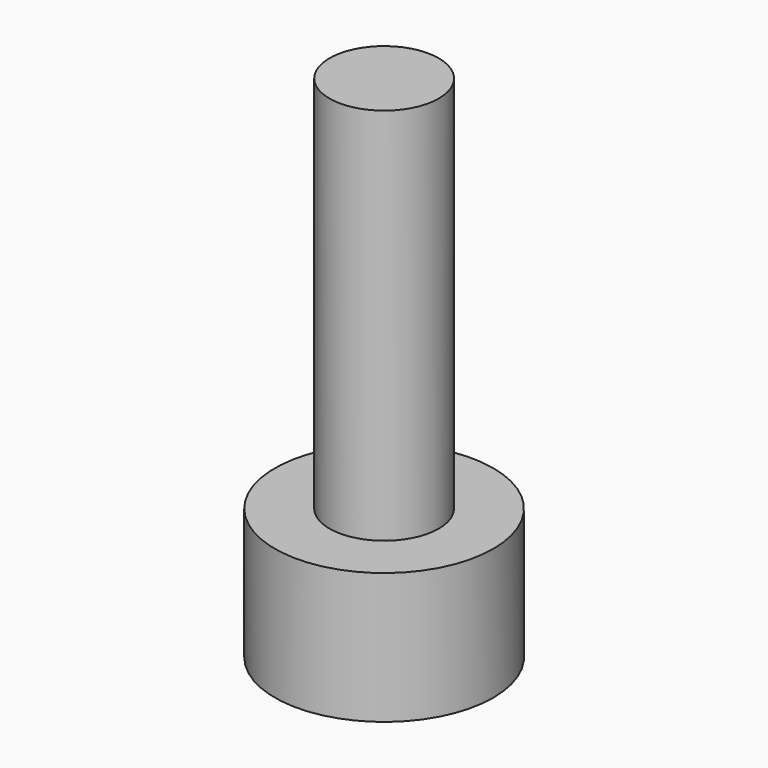
from build123d import *

# Parameters (mm, degrees)
CYLINDER034_R     = 3
CYLINDER034_DEPTH = 3.6
CYLINDER035_R     = 1.5
CYLINDER035_DEPTH = 14


with BuildPart() as cylinder034:
    # Cylinder034 → Cylinder034 (new body)
    with BuildSketch(Plane.XY.offset(10)):
        Circle(CYLINDER034_R)
    extrude(amount=CYLINDER034_DEPTH)


with BuildPart() as obj1:
    # Cylinder035 → Cylinder035 (new body)
    with BuildSketch(Plane.XY.offset(10)):
        Circle(CYLINDER035_R)
    extrude(amount=CYLINDER035_DEPTH)

    # Fusion007002009027003005008003003018004: union Cylinder034
    add(cylinder034.part)


with BuildPart() as obj1_1:
    # Fusion007002009027003005008003003018004 placement: moved
    add(obj1.part.moved(Location((128, 14, -137))))


solid = obj1_1.part
